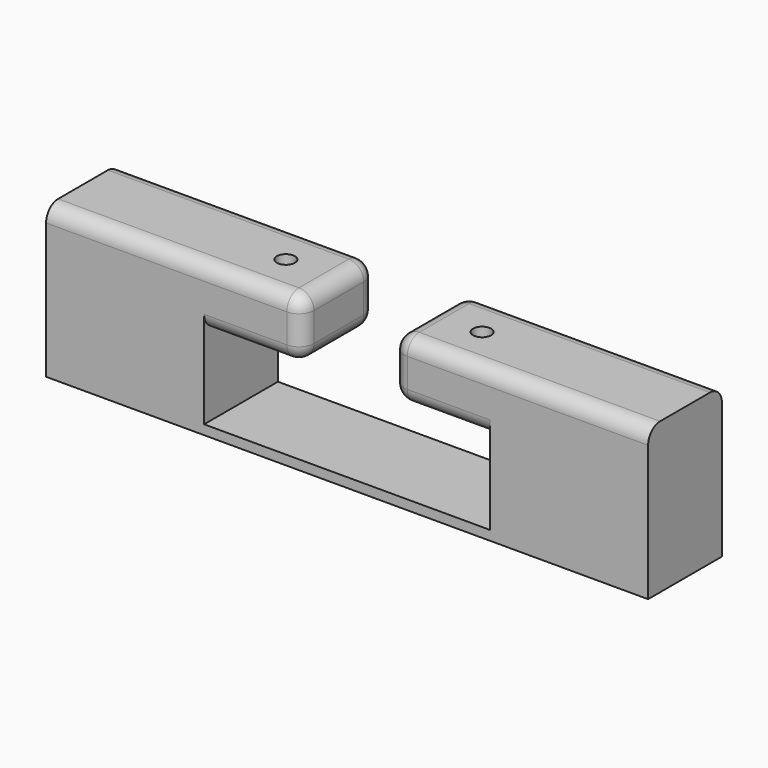
from build123d import *

# Parameters (mm, degrees)
F1_DEPTH  = 30.65
F2_R      = 5
F3_R      = 5
F4_R      = 5
F5_R      = 5
F6_R      = 5
F7_R      = 5
F8_R      = 5
F9_R      = 5
F10_R     = 3
F11_DEPTH = 20


with BuildPart() as f1:
    # F0 (on Front) → F1 (new body)
    with BuildSketch(Plane.XZ):
        Polygon((-100, 25), (-100, -25), (100, -25), (100, 25), (15, 25), (15, 5.35), (47.5, 5.35), (47.5, -7.066266), (47.5, -21.822188), (0, -21.822188), (-47.5, -21.822188), (-47.5, -7.066266), (-47.5, 5.35), (-15, 5.35), (-15, 25), align=None)
    extrude(amount=F1_DEPTH)

    # F2
    f2_edges = [f1.edges().sort_by_distance(p)[0] for p in [
        (-57.5, -30.65, 25),
    ]]
    fillet(f2_edges, radius=F2_R)

    # F3
    f3_edges = [f1.edges().sort_by_distance(p)[0] for p in [
        (-15, -30.65, 12.675),
    ]]
    fillet(f3_edges, radius=F3_R)

    # F4
    f4_edges = [f1.edges().sort_by_distance(p)[0] for p in [
        (-33.75, -30.65, 5.35),
    ]]
    fillet(f4_edges, radius=F4_R)

    # F5
    f5_edges = [f1.edges().sort_by_distance(p)[0] for p in [
        (15, -30.65, 15.175),
    ]]
    fillet(f5_edges, radius=F5_R)

    # F6
    f6_edges = [f1.edges().sort_by_distance(p)[0] for p in [
        (33.75, -30.65, 5.35),
    ]]
    fillet(f6_edges, radius=F6_R)

    # F7
    f7_edges = [f1.edges().sort_by_distance(p)[0] for p in [
        (60, -30.65, 25),
    ]]
    fillet(f7_edges, radius=F7_R)

    # F8
    f8_edges = [f1.edges().sort_by_distance(p)[0] for p in [
        (60, 0, 25),
    ]]
    fillet(f8_edges, radius=F8_R)

    # F9
    f9_edges = [f1.edges().sort_by_distance(p)[0] for p in [
        (-33.75, 0, 5.35),
    ]]
    fillet(f9_edges, radius=F9_R)

    # F10 (on face) → F11 (cut)
    with BuildSketch(Plane.XY.offset(25)):
        with Locations((-32.6, -15.325)):
            Circle(F10_R)
        with Locations((32.6, -15.325)):
            Circle(F10_R)
    extrude(amount=-F11_DEPTH, mode=Mode.SUBTRACT)


solid = f1.part
